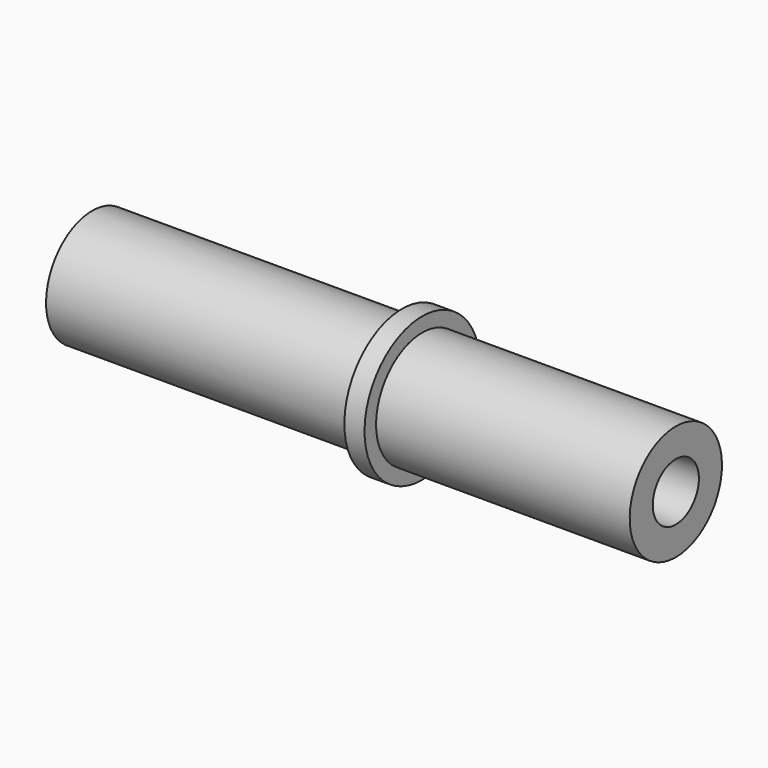
from build123d import *

# Parameters (mm, degrees)
CYLINDER136_R     = 2
CYLINDER136_DEPTH = 47.8
CYLINDER118_R     = 5
CYLINDER118_DEPTH = 1.4
CYLINDER119_R     = 4
CYLINDER119_DEPTH = 40.5


with BuildPart() as cylinder136:
    # Cylinder136 → Cylinder136 (new body)
    with BuildSketch(Plane(origin=(9.4, -82, 10), x_dir=(0, 0, -1), z_dir=(1, 0, 0))):
        Circle(CYLINDER136_R)
    extrude(amount=CYLINDER136_DEPTH)


with BuildPart() as cylinder118:
    # Cylinder118 → Cylinder118 (new body)
    with BuildSketch(Plane(origin=(38.2, -82, 10), x_dir=(0, 0, -1), z_dir=(1, 0, 0))):
        Circle(CYLINDER118_R)
    extrude(amount=CYLINDER118_DEPTH)


with BuildPart() as cut096:
    # Cylinder119 → Cylinder119 (new body)
    with BuildSketch(Plane(origin=(16.7, -82, 10), x_dir=(0, 0, -1), z_dir=(1, 0, 0))):
        Circle(CYLINDER119_R)
    extrude(amount=CYLINDER119_DEPTH)

    # Fusion143: union Cylinder118
    add(cylinder118.part)

    # Cut096: cut Cylinder136
    add(cylinder136.part, mode=Mode.SUBTRACT)


with BuildPart() as cut096_1:
    # Cut096 placement: moved
    add(cut096.part.moved(Location((-4, 10, 0))))


solid = cut096_1.part
